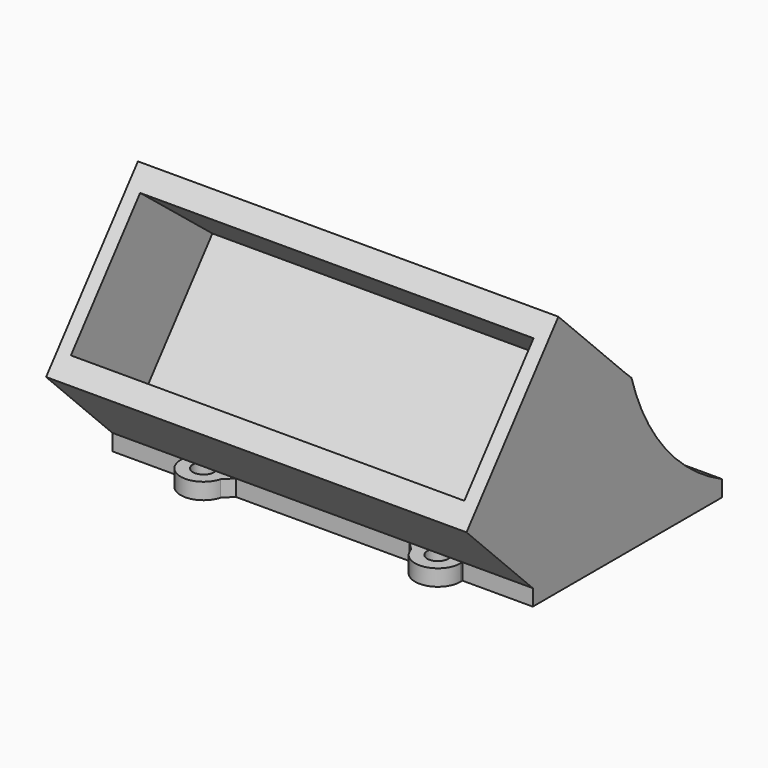
from build123d import *

# Parameters (mm, degrees)
F2_DEPTH  = 32.3
F3_DEPTH  = 32.3
F4_W      = 60.45
F4_H      = 21.25
F5_DEPTH  = 17.8
F0_R      = 1.625
F7_DEPTH  = 2.5
F8_DEPTH  = 125
F9_DEPTH  = 25
F10_DEPTH = 2.5


with BuildPart() as f2:
    # F1 (on Right) → F2 (new body)
    with BuildSketch(Plane.YZ):
        Polygon((-30.3661038332, 12.7279220614), (-17.6381817718, 0), (23, 0), (0, 22), (-12.7279220614, 34.7279220614), align=None)
    extrude(amount=F2_DEPTH)

    # F3 (add): a face of the model
    f3_faces = [f2.faces().sort_by_distance(p)[0] for p in [
        (0, -7.2105643806, 12.6516732047),
    ]]
    extrude(f3_faces, amount=F3_DEPTH)

    # F4 (on face) → F5 (cut)
    with BuildSketch(Plane(origin=(0, -24.6962676026, 19.7998753209), x_dir=(1, 0, 0), z_dir=(0, -0.780207847, 0.6255203557))):
        with Locations((0, 5.0346157827)):
            Rectangle(F4_W, F4_H)
    extrude(amount=-F5_DEPTH, mode=Mode.SUBTRACT)

    # F0 (on Top) → F7 (join)
    with BuildSketch(Plane.XY):
        with BuildLine():
            ThreePointArc((-18.8683877308, 14.6094391689), (-15.8539987253, 15.2350988211), (-14.5, 18))
            ThreePointArc((-14.5, 18), (-14.5324686308, 18.4756324252), (-14.6292721165, 18.9424402026))
            ThreePointArc((-14.6292721165, 18.9424402026), (-20.5018295404, 20.4476210799), (-18.8683877308, 14.6094391689))
        make_face()
        with Locations((-18, 18)):
            Circle(F0_R, mode=Mode.SUBTRACT)
        with BuildLine():
            ThreePointArc((-14.6292721165, 18.9424402026), (-14.5324686308, 18.4756324252), (-14.5, 18))
            ThreePointArc((-14.5, 18), (-15.8539987253, 15.2350988211), (-18.8683877308, 14.6094391689))
            ThreePointArc((-18.8683877308, 14.6094391689), (-12.4958401108, 0.0286551223), (-18.7836705303, -14.5888622866))
            ThreePointArc((-18.7836705303, -14.5888622866), (-15.8197301608, -15.26204028), (-14.5, -18))
            ThreePointArc((-14.5, -18), (-14.5324686308, -18.4756324252), (-14.6292721165, -18.9424402026))
            ThreePointArc((-14.6292721165, -18.9424402026), (-0.0113565012, -12.5687447065), (14.6204813838, -18.9104141492))
            ThreePointArc((14.6204813838, -18.9104141492), (15.4793732037, -15.5717412507), (18.7836705303, -14.5888622866))
            ThreePointArc((18.7836705303, -14.5888622866), (12.4958401108, 0.0286551223), (18.8683877308, 14.6094391689))
            ThreePointArc((18.8683877308, 14.6094391689), (15.5098110461, 15.5405368525), (14.6204813838, 18.9104141492))
            ThreePointArc((14.6204813838, 18.9104141492), (-0.0113565012, 12.5687447065), (-14.6292721165, 18.9424402026))
        make_face()
        with BuildLine():
            ThreePointArc((21.5, 18), (18.459175807, 21.4697489215), (14.6204813838, 18.9104141492))
            ThreePointArc((14.6204813838, 18.9104141492), (15.5098110461, 15.5405368525), (18.8683877308, 14.6094391689))
            ThreePointArc((18.8683877308, 14.6094391689), (20.7649011789, 15.8539987253), (21.5, 18))
        make_face()
        with Locations((18, 18)):
            Circle(F0_R, mode=Mode.SUBTRACT)
        with BuildLine():
            ThreePointArc((-14.5, -18), (-15.8197301608, -15.26204028), (-18.7836705303, -14.5888622866))
            ThreePointArc((-18.7836705303, -14.5888622866), (-20.532118995, -20.4162726243), (-14.6292721165, -18.9424402026))
            ThreePointArc((-14.6292721165, -18.9424402026), (-14.5324686308, -18.4756324252), (-14.5, -18))
        make_face()
        with Locations((-18, -18)):
            Circle(F0_R, mode=Mode.SUBTRACT)
        with BuildLine():
            ThreePointArc((21.5, -18), (20.73795972, -15.8197301608), (18.7836705303, -14.5888622866))
            ThreePointArc((18.7836705303, -14.5888622866), (15.4793732037, -15.5717412507), (14.6204813838, -18.9104141492))
            ThreePointArc((14.6204813838, -18.9104141492), (18.459175807, -21.4697489215), (21.5, -18))
        make_face()
        with Locations((18, -18)):
            Circle(F0_R, mode=Mode.SUBTRACT)
    extrude(amount=-F7_DEPTH)

    # F6 (on face) → F8 (cut)
    with BuildSketch(Plane.YZ.offset(32.3)):
        with BuildLine():
            Line((23, 0), (1.3185644747, 20.7387644155))
            ThreePointArc((1.3185644747, 20.7387644155), (7.8131331228, 8.5369425815), (18.6844021082, 0))
            Line((18.6844021082, 0), (23, 0))
        make_face()
    extrude(amount=-F8_DEPTH, mode=Mode.SUBTRACT)

    # F9 (cut): a face of the model
    f9_faces = [f2.faces().sort_by_distance(p)[0] for p in [
        (0.0105418264, 16.2029444185, 0),
    ]]
    extrude(f9_faces, amount=-F9_DEPTH, mode=Mode.SUBTRACT)

    # F10 (add, through all): faces of the model
    f10_faces = [f2.faces().sort_by_distance(p)[0] for p in [
        (23.7244305893, 0.3347471948, 0),
        (-23.7244305893, 0.3347471948, 0),
        (0.0105418264, -15.5866223713, 0),
    ]]
    extrude(f10_faces, amount=F10_DEPTH)


solid = f2.part
